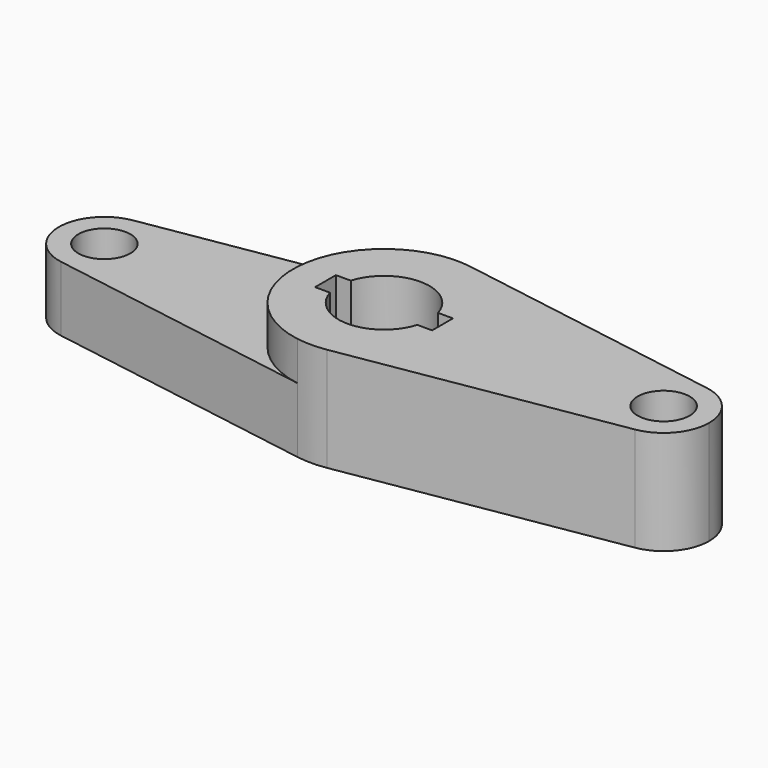
from build123d import *

# Parameters (mm, degrees)
F0_R     = 10
F1_DEPTH = 40
F2_DEPTH = 25


with BuildPart() as f1:
    # F0 (on Top) → F1 (new body)
    with BuildSketch(Plane.XY):
        with BuildLine():
            ThreePointArc((5.697674, 34.533122), (26.68725, 22.644882), (35, 0))
            ThreePointArc((35, 0), (26.68725, -22.644882), (5.697674, -34.533122))
            Line((5.697674, -34.533122), (110.348837, -17.266561))
            ThreePointArc((110.348837, -17.266561), (90, 0), (110.348837, 17.266561))
            Line((110.348837, 17.266561), (5.697674, 34.533122))
        make_face()
        with BuildLine():
            ThreePointArc((125, 0), (120.843625, 11.322441), (110.348837, 17.266561))
            ThreePointArc((110.348837, 17.266561), (90, 0), (110.348837, -17.266561))
            ThreePointArc((110.348837, -17.266561), (120.843625, -11.322441), (125, 0))
        make_face()
        with Locations((107.5, 0)):
            Circle(F0_R, mode=Mode.SUBTRACT)
        with BuildLine():
            ThreePointArc((5.697674, -34.533122), (26.68725, -22.644882), (35, 0))
            ThreePointArc((35, 0), (26.68725, 22.644882), (5.697674, 34.533122))
            ThreePointArc((5.697674, 34.533122), (0, 35), (-5.697674, 34.533122))
            ThreePointArc((-5.697674, 34.533122), (-35, 0), (-5.697674, -34.533122))
            ThreePointArc((-5.697674, -34.533122), (0, -35), (5.697674, -34.533122))
        make_face()
        with BuildLine():
            ThreePointArc((-16.77051, 5), (0, 17.5), (16.77051, 5))
            Line((16.77051, 5), (22.5, 5))
            Line((22.5, 5), (22.5, -5))
            Line((22.5, -5), (16.77051, -5))
            ThreePointArc((16.77051, -5), (0, -17.5), (-16.77051, -5))
            Line((-16.77051, -5), (-22.5, -5))
            Line((-22.5, -5), (-22.5, 5))
            Line((-22.5, 5), (-16.77051, 5))
        make_face(mode=Mode.SUBTRACT)
    extrude(amount=F1_DEPTH)

    # F0 (on Top) → F2 (join)
    with BuildSketch(Plane.XY):
        with BuildLine():
            ThreePointArc((-5.697674, -34.533122), (-35, 0), (-5.697674, 34.533122))
            Line((-5.697674, 34.533122), (-110.348837, 17.266561))
            ThreePointArc((-110.348837, 17.266561), (-96.177559, 13.343625), (-90, 0))
            ThreePointArc((-90, 0), (-96.177559, -13.343625), (-110.348837, -17.266561))
            Line((-110.348837, -17.266561), (-5.697674, -34.533122))
        make_face()
        with BuildLine():
            ThreePointArc((-90, 0), (-96.177559, 13.343625), (-110.348837, 17.266561))
            ThreePointArc((-110.348837, 17.266561), (-125, 0), (-110.348837, -17.266561))
            ThreePointArc((-110.348837, -17.266561), (-96.177559, -13.343625), (-90, 0))
        make_face()
        with Locations((-107.5, 0)):
            Circle(F0_R, mode=Mode.SUBTRACT)
    extrude(amount=F2_DEPTH)


solid = f1.part
